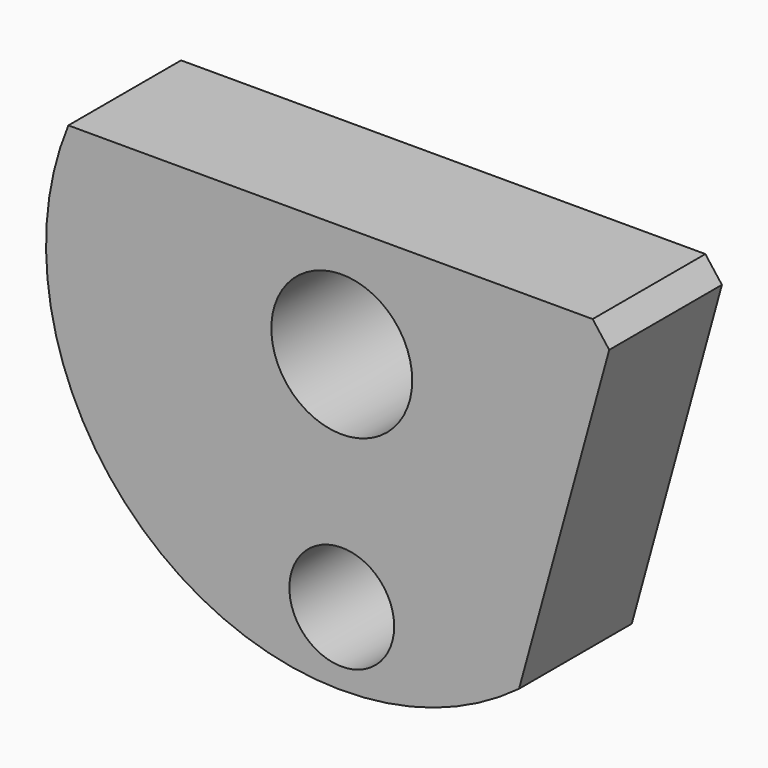
from build123d import *

# Parameters (mm, degrees)
F0_R     = 1.1811
F0_R_2   = 1.5875
F1_DEPTH = 1.5875
F2_SIZE  = 0.508


with BuildPart() as f1:
    # F0 (on Front) → F1 (new body, symmetric)
    with BuildSketch(Plane.XZ):
        with BuildLine():
            Line((5.750813, 4.094138), (-6.573008, 4.094138))
            ThreePointArc((-6.573008, 4.094138), (-4.49461, -3.713278), (3.584436, -3.780322))
            Line((3.584436, -3.780322), (5.750813, 4.094138))
        make_face()
        with Locations((-0.411098, -3.459583)):
            Circle(F0_R, mode=Mode.SUBTRACT)
        with Locations((-0.411098, 1.554138)):
            Circle(F0_R_2, mode=Mode.SUBTRACT)
    extrude(amount=F1_DEPTH, both=True)

    # F2
    f2_edges = [f1.edges().sort_by_distance(p)[0] for p in [
        (5.750813, 0, 4.094138),
    ]]
    chamfer(f2_edges, length=F2_SIZE)


solid = f1.part
